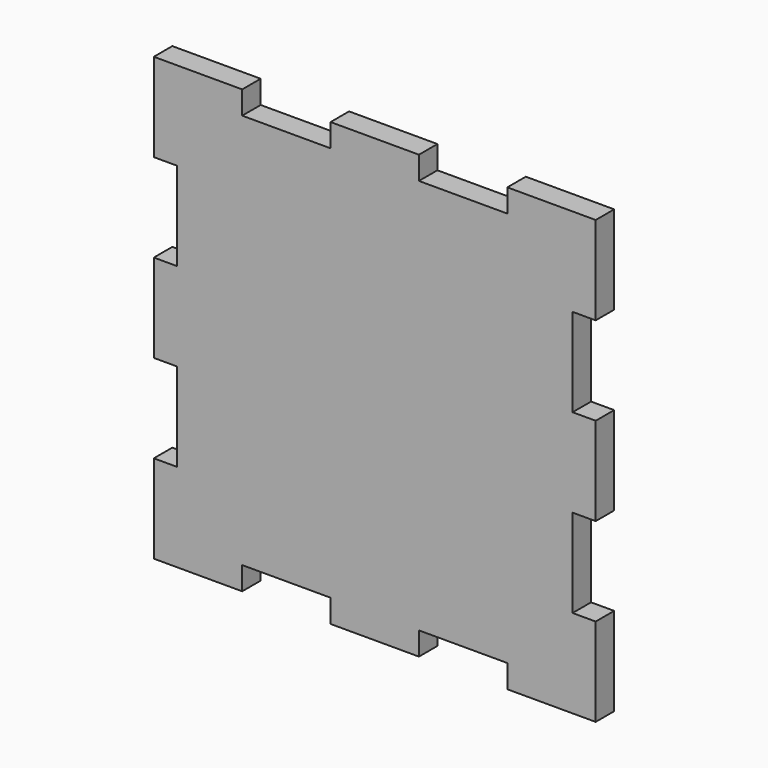
from build123d import *

# Parameters (mm, degrees)
F0_W     = 22.3368
F0_H     = 5.842
F0_W_2   = 5.842
F0_H_2   = 22.3368
F1_DEPTH = 5.842


with BuildPart() as f1:
    # F0 (on Front) → F1 (new body)
    with BuildSketch(Plane.XZ):
        Polygon((-50, 33.5052), (-50, 50), (-33.5052, 50), (-33.5052, 55.842), (-55.842, 55.842), (-55.842, 33.5052), align=None)
        Polygon((-33.5052, 50), (-50, 50), (-50, 33.5052), (-50, 11.1682), (-50, -11.1686), (-50, -33.5052), (-50, -50), (-33.5052, -50), (-11.1682, -50), (11.1686, -50), (33.5052, -50), (50, -50), (50, -33.5052), (50, -11.1686), (50, 11.1682), (50, 33.5052), (50, 50), (33.5052, 50), (11.1684, 50), (-11.1684, 50), align=None)
        with Locations((0, 52.921)):
            Rectangle(F0_W, F0_H)
        with Locations((-52.921, -0.0002)):
            Rectangle(F0_W_2, F0_H_2)
        Polygon((33.5052, 55.842), (33.5052, 50), (50, 50), (50, 33.5052), (55.842, 33.5052), (55.842, 55.842), align=None)
        Polygon((-50, -50), (-50, -33.5052), (-55.842, -33.5052), (-55.842, -55.842), (-33.5052, -55.842), (-33.5052, -50), align=None)
        with Locations((52.921, -0.0002)):
            Rectangle(F0_W_2, F0_H_2)
        with Locations((0.0002, -52.921)):
            Rectangle(F0_W, F0_H)
        Polygon((55.842, -33.5052), (50, -33.5052), (50, -50), (33.5052, -50), (33.5052, -55.842), (55.842, -55.842), align=None)
    extrude(amount=F1_DEPTH)


solid = f1.part
